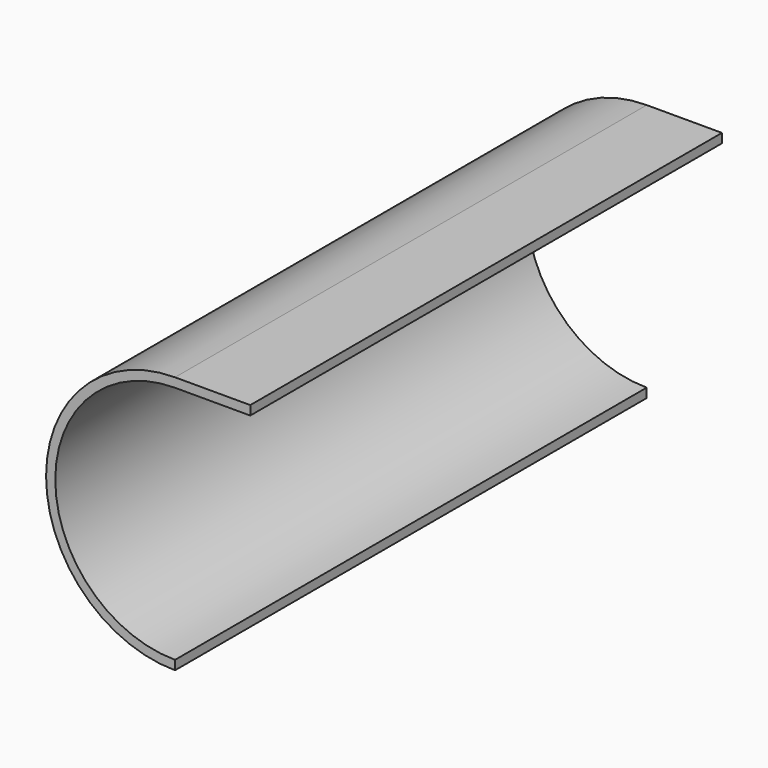
from build123d import *

# Parameters (mm, degrees)
F1_DEPTH = 203.2


with BuildPart() as f1:
    # F0 (on Front) → F1 (new body)
    with BuildSketch(Plane.XZ):
        with BuildLine():
            ThreePointArc((0, -41.275), (-41.275, 0), (0, 41.275))
            Line((0, 41.275), (25.92662, 41.275))
            Line((25.92662, 41.275), (25.92662, 44.45))
            Line((25.92662, 44.45), (0, 44.45))
            ThreePointArc((0, 44.45), (-44.45, 0), (0, -44.45))
            Line((0, -44.45), (0, -41.275))
        make_face()
    extrude(amount=F1_DEPTH)


solid = f1.part
